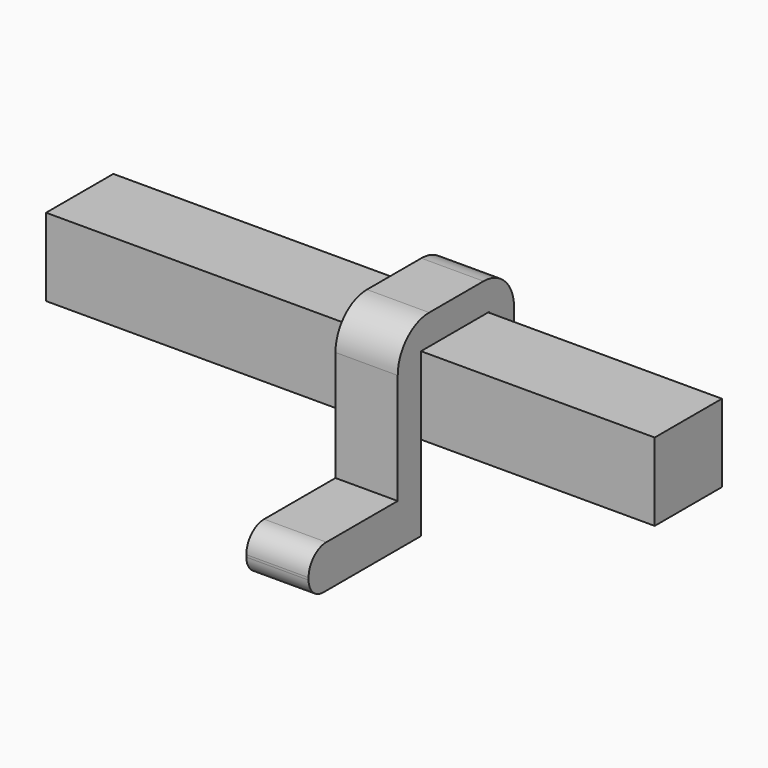
from build123d import *

# Parameters (mm, degrees)
F0_W     = 97.767125
F0_H     = 12.5
F1_DEPTH = 13.5
F3_DEPTH = 10


with BuildPart() as f1:
    # F0 (on Front) → F1 (new body)
    with BuildSketch(Plane.XZ):
        with Locations((-1.513699, 19.75)):
            Rectangle(F0_W, F0_H)
    extrude(amount=F1_DEPTH)

    # F2 (on Right) → F3 (join)
    with BuildSketch(Plane.YZ):
        with BuildLine():
            ThreePointArc((4.961186, 24.821395), (3.170716, 29.143972), (-1.151862, 30.934442))
            Line((-1.151862, 30.934442), (-12.06661, 30.934442))
            ThreePointArc((-12.06661, 30.934442), (-16.534783, 29.083664), (-18.385561, 24.615491))
            Line((-18.385561, 24.615491), (-18.385561, 13.716214))
            Line((-18.385561, 13.716214), (-13.716212, 13.716214))
            Line((-13.716212, 13.716214), (-13.706157, 13.716214))
            Line((-13.706157, 13.716214), (-13.706157, 26.142228))
            Line((-13.706157, 26.142228), (0, 26.142228))
            Line((0, 26.142228), (0, 13.773428))
            ThreePointArc((0, 13.773428), (3.54785, 15.704206), (4.961186, 19.488069))
            Line((4.961186, 19.488069), (4.961186, 24.821395))
        make_face()
        Polygon((-13.716212, 13.716214), (-18.385561, 13.716214), (-18.385561, 6.858107), (-18.385561, 0), (-13.716212, 0), align=None)
        with BuildLine():
            Line((-18.385561, 0), (-18.385561, 6.858107))
            Line((-18.385561, 6.858107), (-32.718604, 6.858107))
            ThreePointArc((-32.718604, 6.858107), (-35.239143, 5.814066), (-36.283184, 3.293528))
            Line((-36.283184, 3.293528), (-36.283184, 2.944212))
            ThreePointArc((-36.283184, 2.944212), (-35.420844, 0.86234), (-33.338972, 0))
            Line((-33.338972, 0), (-18.385561, 0))
        make_face()
    extrude(amount=F3_DEPTH)


solid = f1.part
